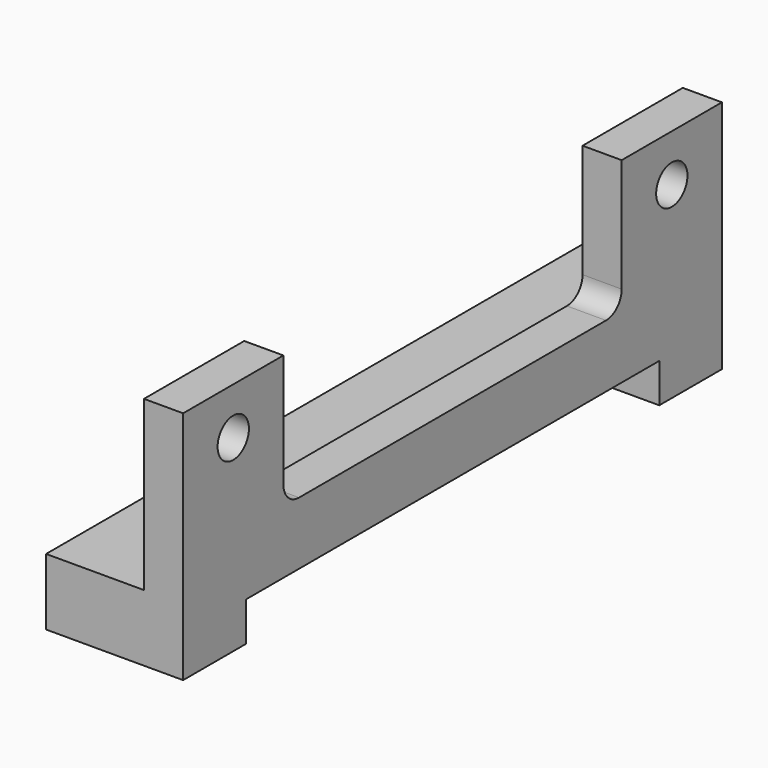
from build123d import *

# Parameters (mm, degrees)
F1_DEPTH = 172
F3_DEPTH = 10
F5_W     = 132
F5_H     = 10
F6_DEPTH = 35
F8_D     = 10


with BuildPart() as f1:
    # F0 (on Front) → F1 (new body)
    with BuildSketch(Plane.XZ):
        Polygon((-25, 0), (0, 0), (10, 0), (10, 17), (10, 60), (0, 60), (0, 17), (-25, 17), align=None)
    extrude(amount=F1_DEPTH)

    # F2 (on face) → F3 (cut)
    with BuildSketch(Plane(origin=(0, 0, 0), x_dir=(0, -1, 0), z_dir=(-1, 0, 0))):
        with BuildLine():
            Line((140, 31), (140, 60))
            Line((140, 60), (32, 60))
            Line((32, 60), (32, 31))
            ThreePointArc((32, 31), (33.464466, 27.464466), (37, 26))
            Line((37, 26), (135, 26))
            ThreePointArc((135, 26), (138.535534, 27.464466), (140, 31))
        make_face()
    extrude(amount=-F3_DEPTH, mode=Mode.SUBTRACT)

    # F5 (on offset) → F6 (cut)
    with BuildSketch(Plane.YZ.offset(-25)):
        with Locations((-86, 5)):
            Rectangle(F5_W, F5_H)
    extrude(amount=F6_DEPTH, mode=Mode.SUBTRACT)

    # F8 (through all)
    with Locations(Plane(origin=(0, 0, 0), x_dir=(0, -1, 0), z_dir=(-1, 0, 0))):
        with Locations((16, 48), (156, 48)):
            Hole(F8_D / 2)


solid = f1.part
